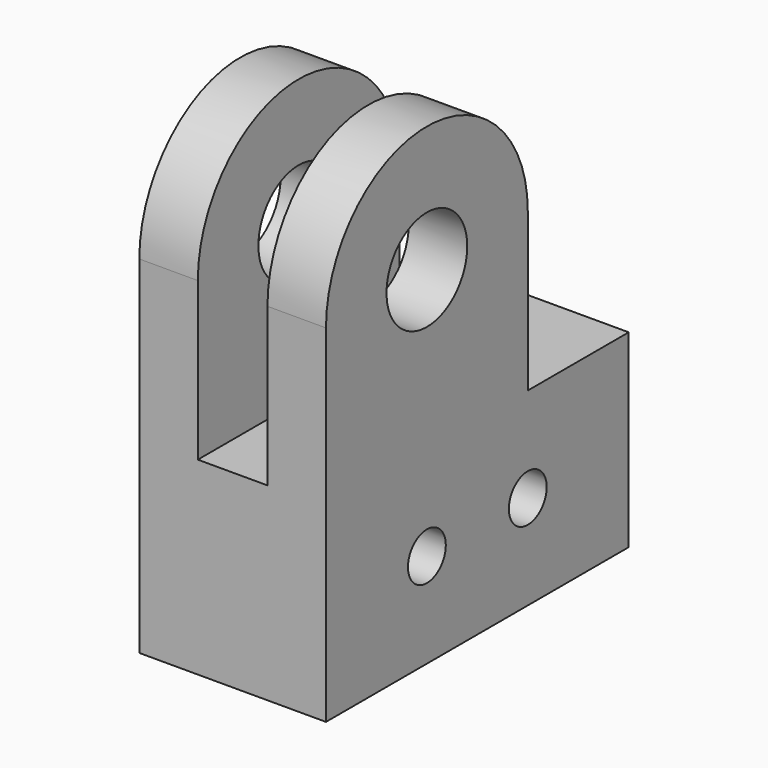
from build123d import *

# Parameters (mm, degrees)
F0_W     = 19.05
F0_H     = 9.525
F1_DEPTH = 4.699
F2_R     = 2.54
F3_DEPTH = 4.699
F4_R     = 1.190625
F5_DEPTH = 9.399
F6_W     = 3.5052
F6_H     = 9.525
F7_DEPTH = 19.051


with BuildPart() as f1:
    # F0 (on Right) → F1 (new body, symmetric)
    with BuildSketch(Plane.YZ):
        with Locations((0, 4.7625)):
            Rectangle(F0_W, F0_H)
    extrude(amount=F1_DEPTH, both=True)

    # F2 (on Right) → F3 (join, symmetric)
    with BuildSketch(Plane.YZ):
        with BuildLine():
            ThreePointArc((-9.525, 17.4625), (-3.175, 11.1125), (3.175, 17.4625))
            ThreePointArc((3.175, 17.4625), (-3.175, 23.8125), (-9.525, 17.4625))
        make_face()
        with Locations((-3.175, 17.4625)):
            Circle(F2_R, mode=Mode.SUBTRACT)
        with BuildLine():
            Line((3.175, 0), (3.175, 17.4625))
            ThreePointArc((3.175, 17.4625), (-3.175, 11.1125), (-9.525, 17.4625))
            Line((-9.525, 17.4625), (-9.525, 0))
            Line((-9.525, 0), (3.175, 0))
        make_face()
    extrude(amount=F3_DEPTH, both=True)

    # F4 (on face) → F5 (cut, through all)
    with BuildSketch(Plane.YZ.offset(4.699)):
        with Locations((-3.175, 4.7625)):
            Circle(F4_R)
        with Locations((3.175, 4.7625)):
            Circle(F4_R)
    extrude(amount=-F5_DEPTH, mode=Mode.SUBTRACT)

    # F6 (on face) → F7 (cut, through all)
    with BuildSketch(Plane.XZ.offset(9.525)):
        with Locations((0, 23.8125)):
            Rectangle(F6_W, F6_H)
        with Locations((0, 14.2875)):
            Rectangle(F6_W, F6_H)
    extrude(amount=-F7_DEPTH, mode=Mode.SUBTRACT)


solid = f1.part
